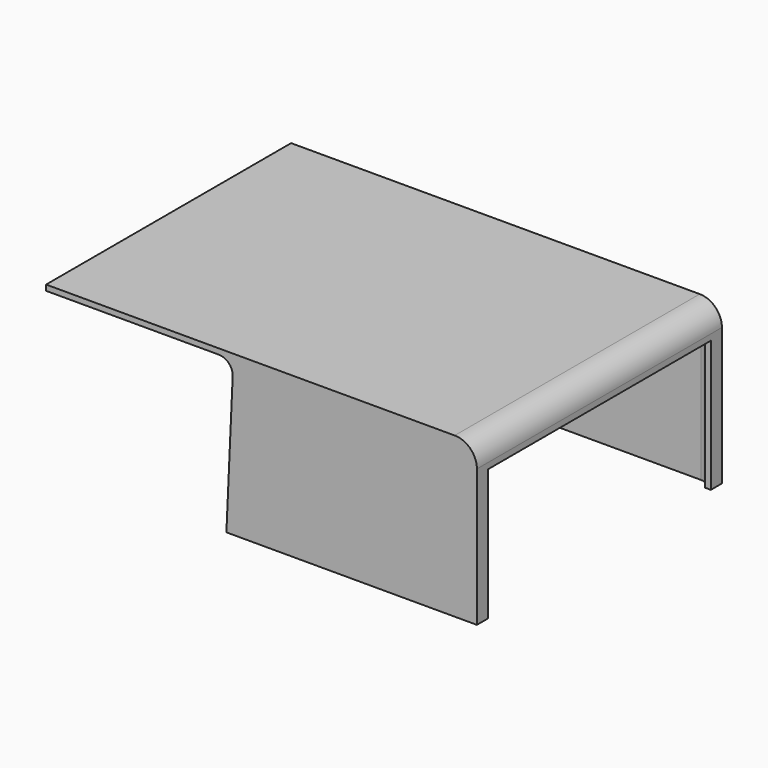
from build123d import *

# Parameters (mm, degrees)
F0_W      = 197.231
F0_H      = 140.208
F1_DEPTH  = 73.025
F2_R      = 10.16
F3_T      = -2.54
F4_W      = 11.0265567622
F4_H      = 70.485
F4_W_2    = 137.668
F5_DEPTH  = 25.4
F6_R      = 5.08
F7_W      = 127.508
F7_H      = 60.1236441541
F8_DEPTH  = 25.4
F10_DEPTH = 254


with BuildPart() as f1:
    # F0 (on Top) → F1 (new body)
    with BuildSketch(Plane.XY):
        Rectangle(F0_W, F0_H)
    extrude(amount=F1_DEPTH)

    # F2
    f2_edges = [f1.edges().sort_by_distance(p)[0] for p in [
        (98.6155, 0, 73.025),
    ]]
    fillet(f2_edges, radius=F2_R)

    # F3
    f3_openings = [f1.faces().sort_by_distance(p)[0] for p in [
        (0, 0, 0),
    ]]
    offset(amount=F3_T, openings=f3_openings)

    # F4 (on face) → F5 (cut)
    with BuildSketch(Plane(origin=(-98.6155, 0, 0), x_dir=(0, -1, 0), z_dir=(-1, 0, 0))):
        with Locations((-75.6172783811, 35.2425)):
            Rectangle(F4_W, F4_H)
        with Locations((-1.27, 35.2425)):
            Rectangle(F4_W_2, F4_H)
    extrude(amount=-F5_DEPTH, mode=Mode.SUBTRACT)

    # F6
    f6_edges = [f1.edges().sort_by_distance(p)[0] for p in [
        (96.0755, -67.564, 31.4325),
        (96.0755, 67.564, 31.4325),
    ]]
    fillet(f6_edges, radius=F6_R)

    # F7 (on face) → F8 (cut)
    with BuildSketch(Plane.YZ.offset(98.6155)):
        with Locations((0, 30.061822077)):
            Rectangle(F7_W, F7_H)
    extrude(amount=-F8_DEPTH, mode=Mode.SUBTRACT)

    # F9 (on face) → F10 (cut)
    with BuildSketch(Plane.XZ.offset(70.104)):
        with BuildLine():
            Line((-98.6155, 70.485), (-98.6155, 0))
            Line((-98.6155, 0), (-16.0655, 0))
            Line((-16.0655, 0), (-13.1894074903, 63.8492537147))
            ThreePointArc((-13.1894074903, 63.8492537147), (-14.9429320556, 68.5229386441), (-19.5329750245, 70.485))
            Line((-19.5329750245, 70.485), (-98.6155, 70.485))
        make_face()
    extrude(amount=-F10_DEPTH, mode=Mode.SUBTRACT)


solid = f1.part
